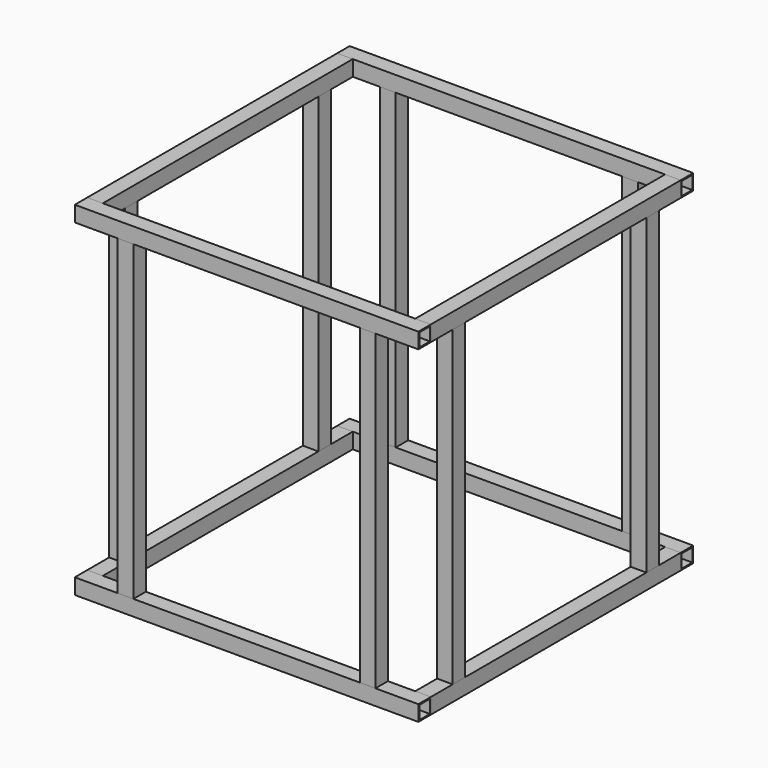
from build123d import *

# Parameters (mm, degrees)
F0_W     = 20
F0_H     = 20
F0_W_2   = 16.799999401
F0_H_2   = 16.799999401
F1_DEPTH = 200
F0_W_3   = 17
F0_H_3   = 17
F3_W     = 20
F3_H     = 20
F3_W_2   = 17
F3_H_2   = 17
F4_DEPTH = 440
F5_W     = 20
F5_H     = 20
F5_W_2   = 17
F5_H_2   = 17
F6_DEPTH = 400


with BuildPart() as f1:
    # F0 (on Front) → F1 (new body, symmetric)
    with BuildSketch(Plane.XZ):
        with Locations((-210, 0)):
            Rectangle(F0_W, F0_H)
        with Locations((-210, 0)):
            Rectangle(F0_W_2, F0_H_2, mode=Mode.SUBTRACT)
    extrude(amount=F1_DEPTH, both=True)


with BuildPart() as f1b:
    # F0 (on Front) → F1, piece 2 (new body, symmetric)
    with BuildSketch(Plane.XZ):
        with Locations((210, 0)):
            Rectangle(F0_W, F0_H)
        with Locations((210, 0)):
            Rectangle(F0_W_3, F0_H_3, mode=Mode.SUBTRACT)
    extrude(amount=F1_DEPTH, both=True)


with BuildPart() as f4:
    # F3 (on face) → F4 (new body, through all)
    with BuildSketch(Plane(origin=(-220, 0, 0), x_dir=(0, -1, 0), z_dir=(-1, 0, 0))):
        with Locations((-210, 0)):
            Rectangle(F3_W, F3_H)
        with Locations((-210, 0)):
            Rectangle(F3_W_2, F3_H_2, mode=Mode.SUBTRACT)
    extrude(amount=-F4_DEPTH)


with BuildPart() as f4b:
    # F3 (on face) → F4, piece 2 (new body, through all)
    with BuildSketch(Plane(origin=(-220, 0, 0), x_dir=(0, -1, 0), z_dir=(-1, 0, 0))):
        with Locations((210, 0)):
            Rectangle(F3_W, F3_H)
        with Locations((210, 0)):
            Rectangle(F3_W_2, F3_H_2, mode=Mode.SUBTRACT)
    extrude(amount=-F4_DEPTH)


with BuildPart() as f6:
    # F5 (on face) → F6 (new body)
    with BuildSketch(Plane(origin=(0, 0, -10), x_dir=(1, 0, 0), z_dir=(0, 0, -1))):
        with Locations((-155, 210)):
            Rectangle(F5_W, F5_H)
        with Locations((-155, 210)):
            Rectangle(F5_W_2, F5_H_2, mode=Mode.SUBTRACT)
    extrude(amount=F6_DEPTH)


with BuildPart() as f6b:
    # F5 (on face) → F6, piece 2 (new body)
    with BuildSketch(Plane(origin=(0, 0, -10), x_dir=(1, 0, 0), z_dir=(0, 0, -1))):
        with Locations((155, 210)):
            Rectangle(F5_W, F5_H)
        with Locations((155, 210)):
            Rectangle(F5_W_2, F5_H_2, mode=Mode.SUBTRACT)
    extrude(amount=F6_DEPTH)


with BuildPart() as f6c:
    # F5 (on face) → F6, piece 3 (new body)
    with BuildSketch(Plane(origin=(0, 0, -10), x_dir=(1, 0, 0), z_dir=(0, 0, -1))):
        with Locations((-155, -210)):
            Rectangle(F5_W, F5_H)
        with Locations((-155, -210)):
            Rectangle(F5_W_2, F5_H_2, mode=Mode.SUBTRACT)
    extrude(amount=F6_DEPTH)


with BuildPart() as f6d:
    # F5 (on face) → F6, piece 4 (new body)
    with BuildSketch(Plane(origin=(0, 0, -10), x_dir=(1, 0, 0), z_dir=(0, 0, -1))):
        with Locations((155, -210)):
            Rectangle(F5_W, F5_H)
        with Locations((155, -210)):
            Rectangle(F5_W_2, F5_H_2, mode=Mode.SUBTRACT)
    extrude(amount=F6_DEPTH)


with BuildPart() as f6e:
    # F5 (on face) → F6, piece 5 (new body)
    with BuildSketch(Plane(origin=(0, 0, -10), x_dir=(1, 0, 0), z_dir=(0, 0, -1))):
        with Locations((-210, 155)):
            Rectangle(F5_W, F5_H)
        with Locations((-210, 155)):
            Rectangle(F5_W_2, F5_H_2, mode=Mode.SUBTRACT)
    extrude(amount=F6_DEPTH)


with BuildPart() as f6f:
    # F5 (on face) → F6, piece 6 (new body)
    with BuildSketch(Plane(origin=(0, 0, -10), x_dir=(1, 0, 0), z_dir=(0, 0, -1))):
        with Locations((-210, -155)):
            Rectangle(F5_W, F5_H)
        with Locations((-210, -155)):
            Rectangle(F5_W_2, F5_H_2, mode=Mode.SUBTRACT)
    extrude(amount=F6_DEPTH)


with BuildPart() as f6g:
    # F5 (on face) → F6, piece 7 (new body)
    with BuildSketch(Plane(origin=(0, 0, -10), x_dir=(1, 0, 0), z_dir=(0, 0, -1))):
        with Locations((210, 155)):
            Rectangle(F5_W, F5_H)
        with Locations((210, 155)):
            Rectangle(F5_W_2, F5_H_2, mode=Mode.SUBTRACT)
    extrude(amount=F6_DEPTH)


with BuildPart() as f6h:
    # F5 (on face) → F6, piece 8 (new body)
    with BuildSketch(Plane(origin=(0, 0, -10), x_dir=(1, 0, 0), z_dir=(0, 0, -1))):
        with Locations((210, -155)):
            Rectangle(F5_W, F5_H)
        with Locations((210, -155)):
            Rectangle(F5_W_2, F5_H_2, mode=Mode.SUBTRACT)
    extrude(amount=F6_DEPTH)


with BuildPart() as f8_1:
    # F8: instance of F4b
    add(f4b.part.mirror(Plane(origin=(165, 220, -210), x_dir=(1, 0, 0), z_dir=(0, 0, -1))))


with BuildPart() as f8_2:
    # F8: instance of F1b
    add(f1b.part.mirror(Plane(origin=(165, 220, -210), x_dir=(1, 0, 0), z_dir=(0, 0, -1))))


with BuildPart() as f8_3:
    # F8: instance of F1
    add(f1.part.mirror(Plane(origin=(165, 220, -210), x_dir=(1, 0, 0), z_dir=(0, 0, -1))))


with BuildPart() as f8_4:
    # F8: instance of F4
    add(f4.part.mirror(Plane(origin=(165, 220, -210), x_dir=(1, 0, 0), z_dir=(0, 0, -1))))


solid = Compound([f1.part, f1b.part, f4.part, f4b.part, f6.part, f6b.part, f6c.part, f6d.part, f6e.part, f6f.part, f6g.part, f6h.part, f8_1.part, f8_2.part, f8_3.part, f8_4.part])
